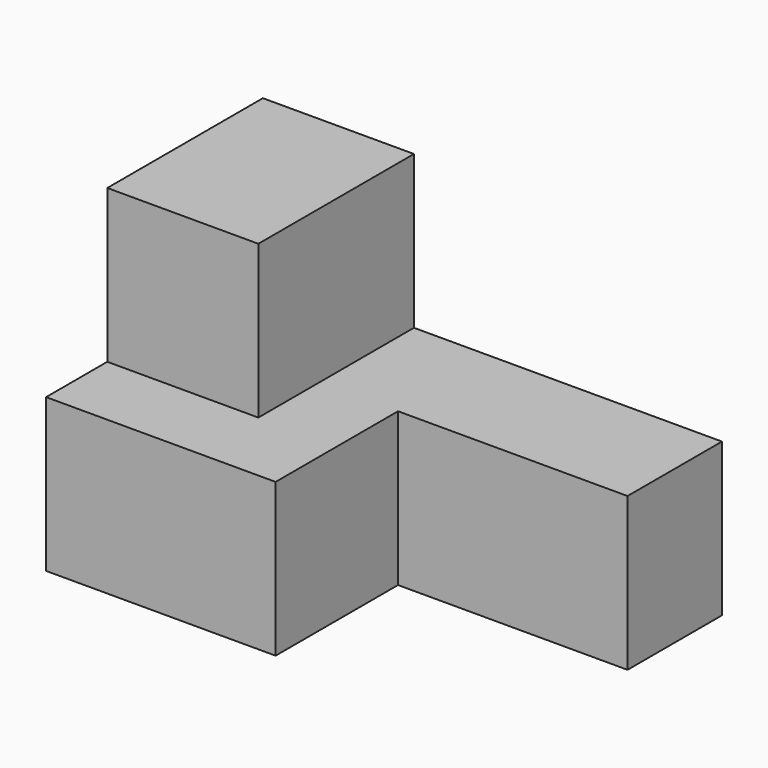
from build123d import *

# Parameters (mm, degrees)
F0_W     = 25.075742
F0_H     = 25.4
F0_W_2   = 38.1
F3_DEPTH = 44.98379
F1_W     = 12.7
F1_H     = 25.4
F4_DEPTH = 25.60555
F5_DEPTH = 25.4


with BuildPart() as f3:
    # F0 (on Front) → F3 (new body)
    with BuildSketch(Plane.XZ):
        Polygon((0, 25.4), (0, 0), (38.1, 0), (38.1, 25.4), (25.075742, 25.4), align=None)
        with Locations((12.537871, 38.1)):
            Rectangle(F0_W, F0_H)
        with Locations((57.15, 12.7)):
            Rectangle(F0_W_2, F0_H)
    extrude(amount=-F3_DEPTH)

    # F1 (on Right) → F4 (cut)
    with BuildSketch(Plane.YZ):
        with Locations((6.35, 38.1)):
            Rectangle(F1_W, F1_H)
    extrude(amount=F4_DEPTH, mode=Mode.SUBTRACT)

    # F2 (on Top) → F5 (cut)
    with BuildSketch(Plane.XY):
        Polygon((76.496184, 0), (76.2, 25.4), (38.1, 25.4), (38.1, 0), align=None)
    extrude(amount=F5_DEPTH, mode=Mode.SUBTRACT)


solid = f3.part
